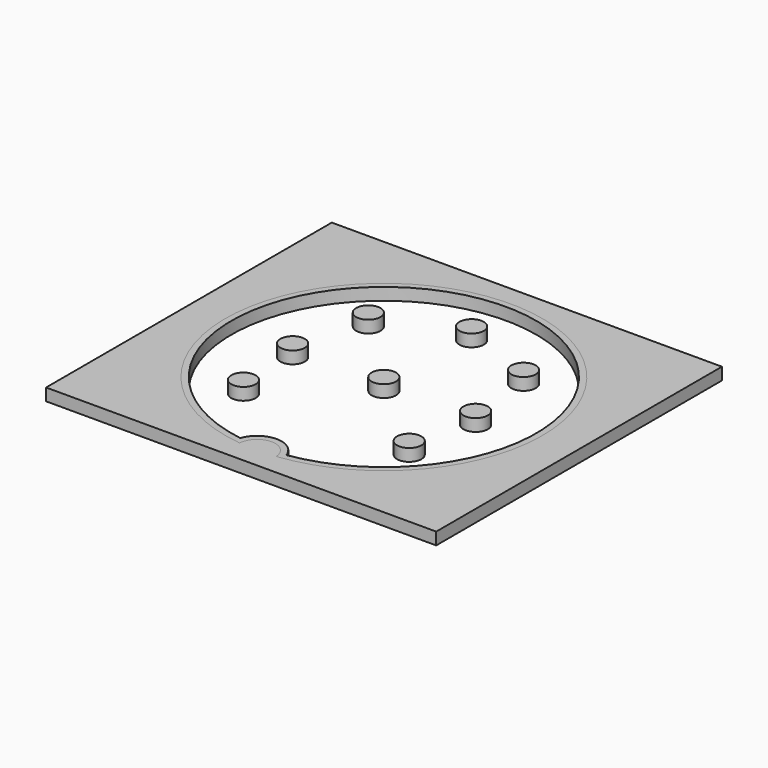
from build123d import *

# Parameters (mm, degrees)
F0_R     = 1
F1_DEPTH = 1
F0_W     = 32
F0_H     = 29.29438
F2_DEPTH = 1


with BuildPart() as f1:
    # F0 (on Top) → F1 (new body)
    with BuildSketch(Plane.XY):
        with BuildLine():
            ThreePointArc((-1.50934, -12.913462), (-0.011839, -11.5), (1.485663, -12.913462))
            ThreePointArc((1.485663, -12.913462), (-0.011839, 13), (-1.50934, -12.913462))
        make_face()
        with BuildLine():
            ThreePointArc((-1.905239, -12.355769), (-0.011839, 12.5), (1.881562, -12.355769))
            ThreePointArc((1.881562, -12.355769), (-0.011839, -11), (-1.905239, -12.355769))
        make_face(mode=Mode.SUBTRACT)
        with Locations((-6.799228, -5.910479)):
            Circle(F0_R)
        with Locations((-7.492259, 0)):
            Circle(F0_R)
        with Locations((-6.375692, 6.364225)):
            Circle(F0_R)
        with Locations((-0.011839, 9.001565)):
            Circle(F0_R)
        with Locations((6.353373, 6.365683)):
            Circle(F0_R)
        with Locations((7.51545, 0)):
            Circle(F0_R)
        with Locations((6.785807, -5.898812)):
            Circle(F0_R)
        with Locations((-0.011839, 0)):
            Circle(F0_R)
        Polygon((-0.090569, -0.078731), (-0.011839, 0), (0, 0), (-0.006333, -0.005505), (-0.011839, -0.010291), align=None, mode=Mode.SUBTRACT)
    extrude(amount=F1_DEPTH)


with BuildPart() as f2:
    # F0 (on Top) → F2 (new body)
    with BuildSketch(Plane.XY):
        Rectangle(F0_W, F0_H)
        with BuildLine():
            ThreePointArc((-1.50934, -12.913462), (-0.011839, 13), (1.485663, -12.913462))
            ThreePointArc((1.485663, -12.913462), (-0.011839, -11.5), (-1.50934, -12.913462))
        make_face(mode=Mode.SUBTRACT)
    extrude(amount=F2_DEPTH)


solid = Compound([f1.part, f2.part])
